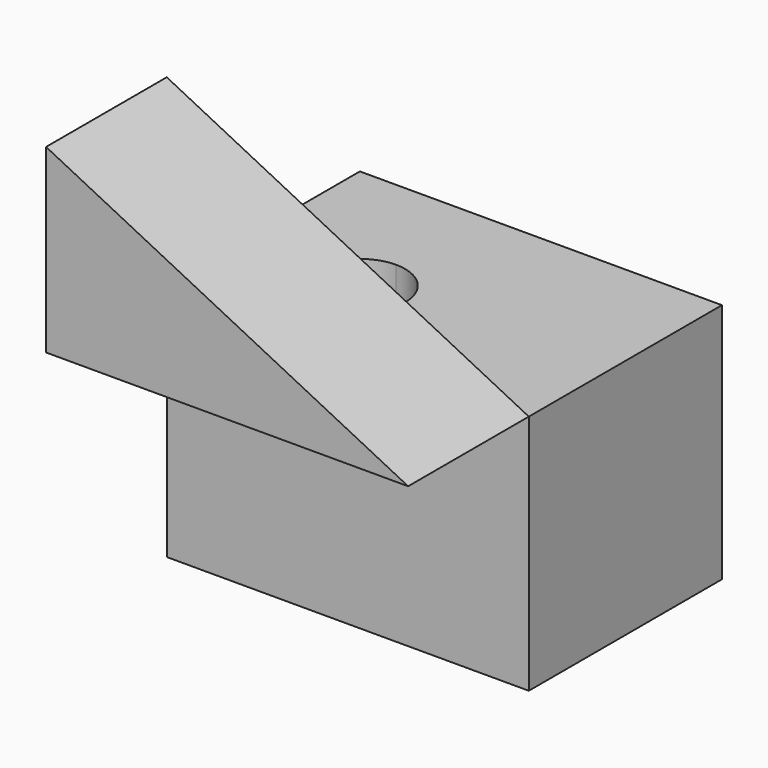
from build123d import *

# Parameters (mm, degrees)
F0_W     = 60
F0_H     = 40
F1_DEPTH = 40
F3_DEPTH = 40
F5_DEPTH = 25


with BuildPart() as f1:
    # F0 (on Front) → F1 (new body)
    with BuildSketch(Plane.XZ):
        with Locations((30, 20)):
            Rectangle(F0_W, F0_H)
    extrude(amount=F1_DEPTH)

    # F2 (on face) → F3 (cut, through all)
    with BuildSketch(Plane.XY.offset(40)):
        with BuildLine():
            ThreePointArc((27.5, -25), (25.303301, -19.696699), (20, -17.5))
            ThreePointArc((20, -17.5), (14.696699, -30.303301), (27.5, -25))
        make_face()
    extrude(amount=-F3_DEPTH, mode=Mode.SUBTRACT)


with BuildPart() as f5:
    # F4 (on face) → F5 (new body)
    with BuildSketch(Plane.XZ.offset(40)):
        Polygon((0, 70), (0, 40), (60, 40), align=None)
    extrude(amount=F5_DEPTH)


solid = Compound([f1.part, f5.part])
